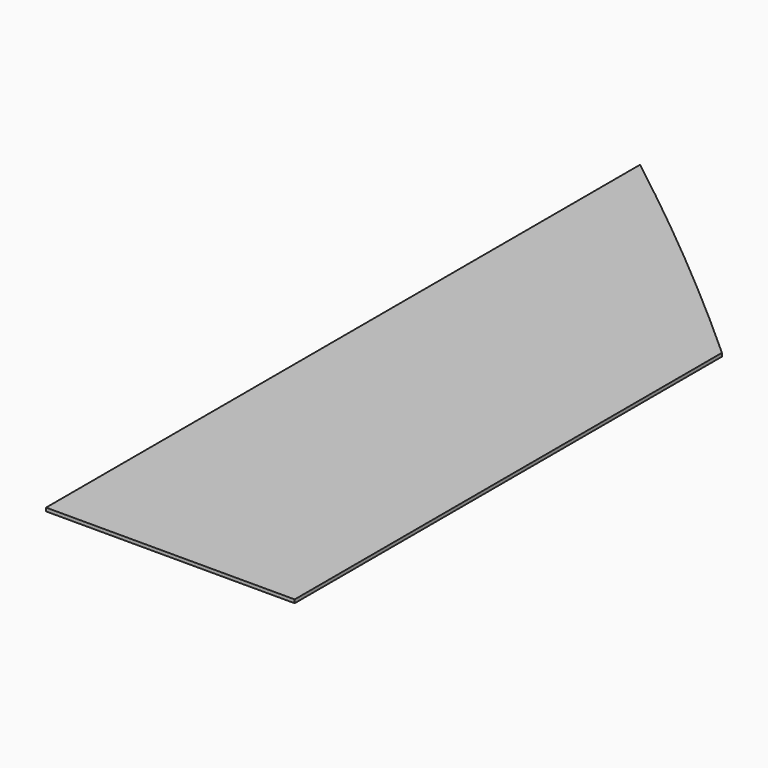
from build123d import *

# Parameters (mm, degrees)
F1_DEPTH = 25.4


with BuildPart() as f1:
    # F0 (on Top) → F1 (new body)
    with BuildSketch(Plane.XY):
        with BuildLine():
            Line((-949.58731, 4120.237991), (-949.58731, -1416.962009))
            Line((-949.58731, -1416.962009), (-22.48731, -1416.962009))
            Line((-22.48731, -1416.962009), (-22.48731, 3373.223991))
            ThreePointArc((-22.48731, 3373.223991), (-482.532585, 3751.080615), (-949.58731, 4120.237991))
        make_face()
        with BuildLine():
            Line((-22.48731, 3373.223991), (-22.48731, -1416.962009))
            Line((-22.48731, -1416.962009), (904.61269, -1416.962009))
            Line((904.61269, -1416.962009), (904.61269, 2566.011991))
            ThreePointArc((904.61269, 2566.011991), (444.972849, 2974.108891), (-22.48731, 3373.223991))
        make_face()
    extrude(amount=F1_DEPTH)


solid = f1.part
